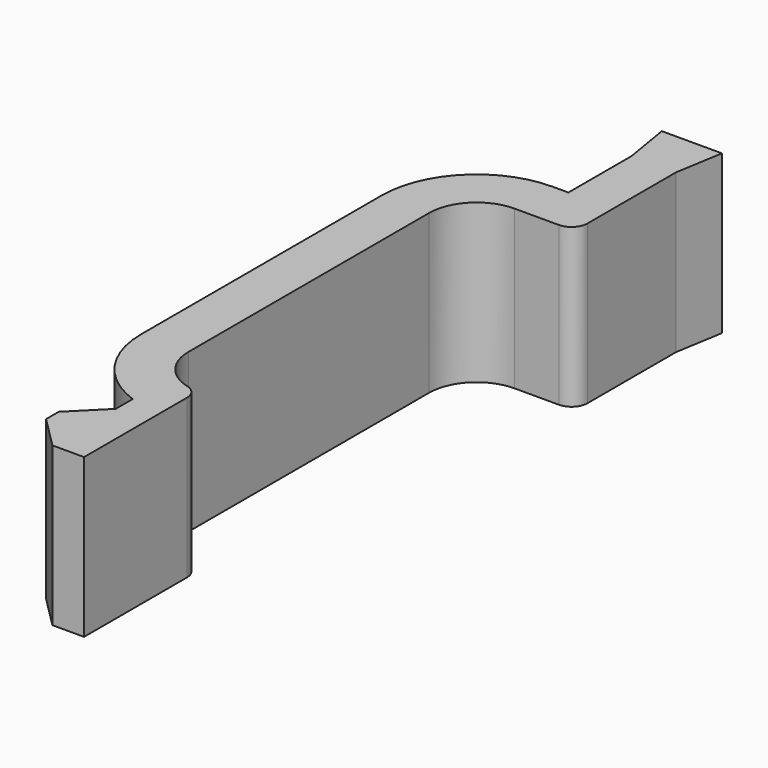
from build123d import *

# Parameters (mm, degrees)
PAD_DEPTH = 10
FILLET_R  = 1


with BuildPart() as part:
    # Sketch → Pad (new body)
    with BuildSketch(Plane.XY):
        with BuildLine():
            Line((-1.4, 4), (-1.4, -1))
            Line((-1.4, -1), (-2.4, -1))
            ThreePointArc((-2.4, -1), (-6.642641, -2.757359), (-8.4, -7))
            Line((-8.4, -7), (-8.4, -26))
            ThreePointArc((-8.4, -26), (-7.298979, -29.464102), (-4.4, -31.656854))
            Line((-4.4, -31.656854), (-4.4, -33))
            Line((-6.4, -35), (-4.4, -33))
            Line((-6.4, -35), (-6.4, -36))
            Line((-6.4, -36), (-4.4, -38))
            Line((-4.4, -38), (-2.4, -38))
            Line((-2.4, -29), (-2.4, -38))
            ThreePointArc((-5.4, -26), (-4.52132, -28.12132), (-2.4, -29))
            Line((-5.4, -7), (-5.4, -26))
            ThreePointArc((-2.4, -4), (-4.52132, -4.87868), (-5.4, -7))
            Line((1.4, -4), (-2.4, -4))
            Line((1.4, -4), (1.4, 4))
            Line((1.4, 4), (1.9, 7))
            Line((1.9, 7), (-1.9, 7))
            Line((-1.9, 7), (-1.4, 4))
        make_face()
    extrude(amount=PAD_DEPTH)

    # Fillet
    fillet_edges = [part.edges().sort_by_distance(p)[0] for p in [
        (1.4, -4, 5),
        (-2.4, -29, 5),
    ]]
    fillet(fillet_edges, radius=FILLET_R)


solid = part.part
